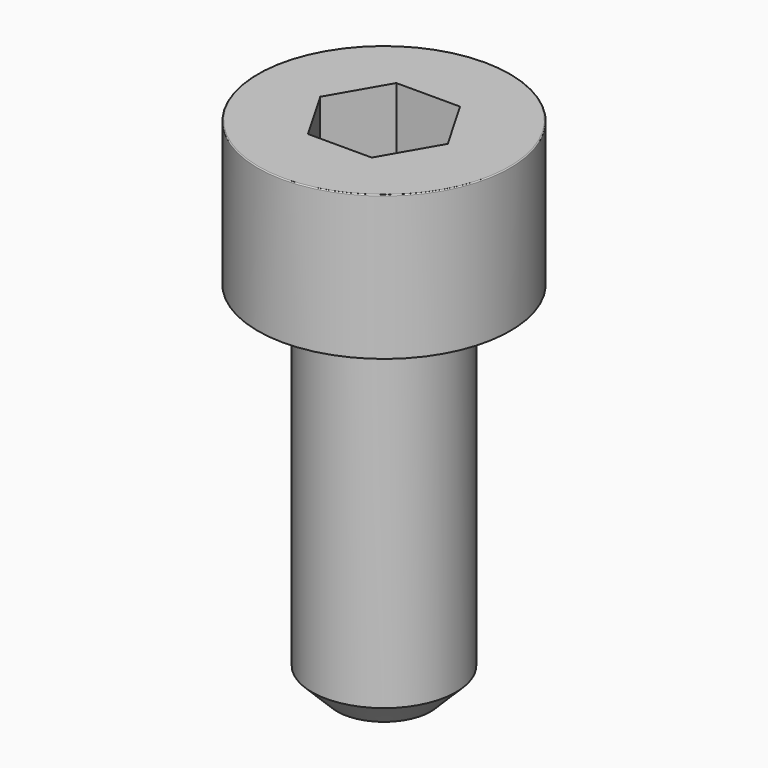
from build123d import *

# Parameters (mm, degrees)
POCKET_DEPTH = 3.06


with BuildPart() as part:
    # Sketch → Revolve (revolve)
    with BuildSketch(Plane.YZ):
        with BuildLine():
            Line((1.999, 0), (3.5, 0))
            Line((3.5, 0), (3.5, 3.97229))
            ThreePointArc((3.5, 3.97229), (3.491884, 3.991884), (3.47229, 4))
            Line((3.47229, 4), (0, 4))
            Line((0, -10), (0, 4))
            Line((1.3, -10), (0, -10))
            Line((2, -9.3), (1.3, -10))
            Line((2, -0.2), (2, -9.3))
            Line((1.999, 0), (2, -0.2))
        make_face()
    revolve(axis=Axis((0, 0, 0), (0, 0, 1)))

    # Sketch001 → Pocket (cut)
    with BuildSketch(Plane.XY.offset(4)):
        Polygon((1.766692, 0), (0.883346, 1.53), (-0.883346, 1.53), (-1.766692, 0), (-0.883346, -1.53), (0.883346, -1.53), align=None)
    extrude(amount=-POCKET_DEPTH, mode=Mode.SUBTRACT)


solid = part.part
